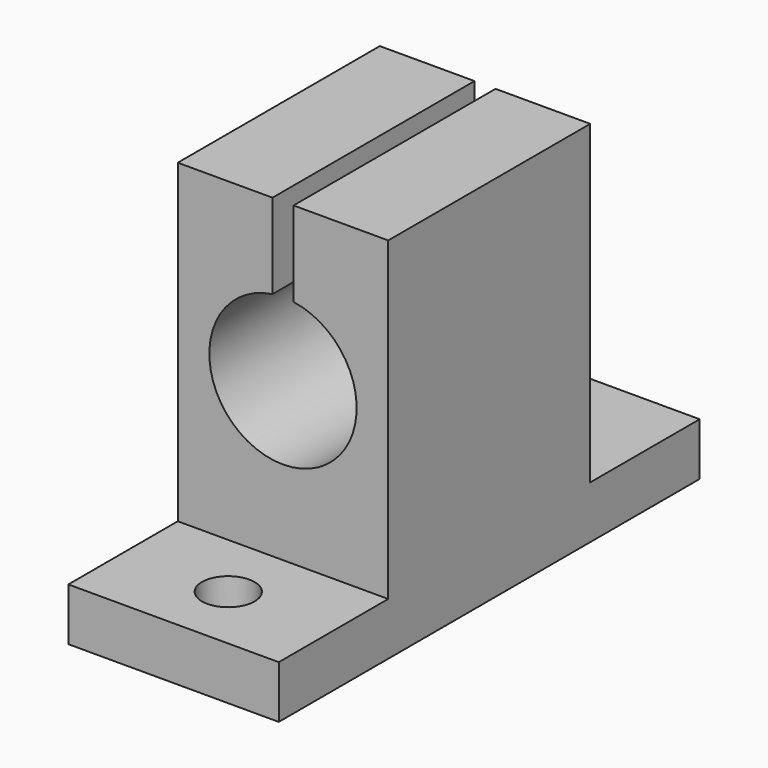
from build123d import *

# Parameters (mm, degrees)
SKETCH020_W     = 20
SKETCH020_H     = 50
PAD011_DEPTH    = 5
SKETCH021_R     = 2.5
POCKET008_DEPTH = 5.001
SKETCH022_W     = 20
SKETCH022_H     = 24
PAD012_DEPTH    = 30
SKETCH023_R     = 7
POCKET009_DEPTH = 37.001
SKETCH024_W     = 2
SKETCH024_H     = 8.31
POCKET010_DEPTH = 37.001


with BuildPart() as part:
    # Sketch020 → Pad011 (new body)
    with BuildSketch(Plane.XY):
        Rectangle(SKETCH020_W, SKETCH020_H)
    extrude(amount=PAD011_DEPTH)

    # Sketch021 (on Face6 of Pad011) → Pocket008 (cut, through all)
    with BuildSketch(Plane.XY.offset(5)):
        with Locations((0, -18.5)):
            Circle(SKETCH021_R)
        with Locations((0, 18.5)):
            Circle(SKETCH021_R)
    extrude(amount=-POCKET008_DEPTH, mode=Mode.SUBTRACT)

    # Sketch022 (on Face5 of Pocket008) → Pad012 (join)
    with BuildSketch(Plane.XY.offset(5)):
        Rectangle(SKETCH022_W, SKETCH022_H)
    extrude(amount=PAD012_DEPTH)

    # Sketch023 (on Face12 of Pad012) → Pocket009 (cut, through all)
    with BuildSketch(Plane(origin=(0, 12, 0), x_dir=(-1, 0, 0), z_dir=(0, 1, 0))):
        with Locations((0, 20)):
            Circle(SKETCH023_R)
    extrude(amount=-POCKET009_DEPTH, mode=Mode.SUBTRACT)

    # Sketch024 (on Face12 of Pocket009) → Pocket010 (cut, through all)
    with BuildSketch(Plane(origin=(0, 12, 0), x_dir=(-1, 0, 0), z_dir=(0, 1, 0))):
        with Locations((0, 30.845)):
            Rectangle(SKETCH024_W, SKETCH024_H)
    extrude(amount=-POCKET010_DEPTH, mode=Mode.SUBTRACT)


solid = part.part
